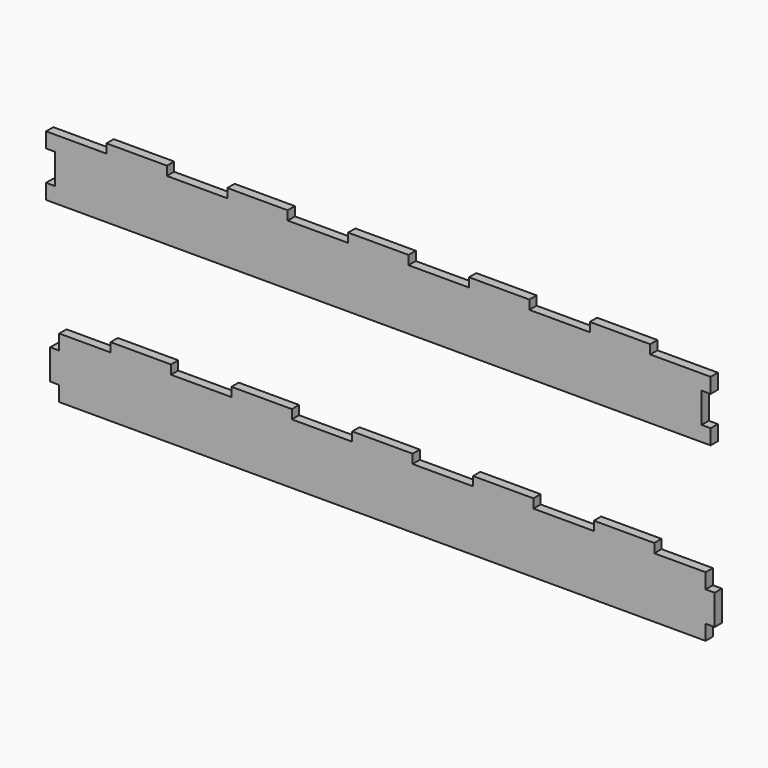
from build123d import *

# Parameters (mm, degrees)
F1_DEPTH = 3


with BuildPart() as f1:
    # F0 (on Front) → F1 (new body)
    with BuildSketch(Plane.XZ):
        Polygon((-91.353428, 67.502585), (-111.353428, 67.502585), (-111.353428, 62.502585), (-108.353428, 62.502585), (-108.353428, 52.502585), (-111.353428, 52.502585), (-111.353428, 47.502585), (108.646572, 47.502585), (108.646572, 52.502585), (105.646572, 52.502585), (105.646572, 62.502585), (108.646572, 62.502585), (108.646572, 67.502585), (88.646572, 67.502585), (88.646572, 70.502585), (68.646572, 70.502585), (68.646572, 67.502585), (48.646572, 67.502585), (48.646572, 70.502585), (28.646572, 70.502585), (28.646572, 67.502585), (8.646572, 67.502585), (8.646572, 70.502585), (-11.353428, 70.502585), (-11.353428, 67.502585), (-31.353428, 67.502585), (-31.353428, 70.502585), (-51.353428, 70.502585), (-51.353428, 67.502585), (-71.353428, 67.502585), (-71.353428, 70.502585), (-91.353428, 70.502585), align=None)
        Polygon((-90, 10), (-107, 10), (-107, 5), (-110, 5), (-110, -5), (-107, -5), (-107, -10), (107, -10), (107, -5), (110, -5), (110, 5), (107, 5), (107, 10), (90, 10), (90, 13), (70, 13), (70, 10), (50, 10), (50, 13), (30, 13), (30, 10), (10, 10), (10, 13), (-10, 13), (-10, 10), (-30, 10), (-30, 13), (-50, 13), (-50, 10), (-70, 10), (-70, 13), (-90, 13), align=None)
    extrude(amount=F1_DEPTH)


solid = f1.part
